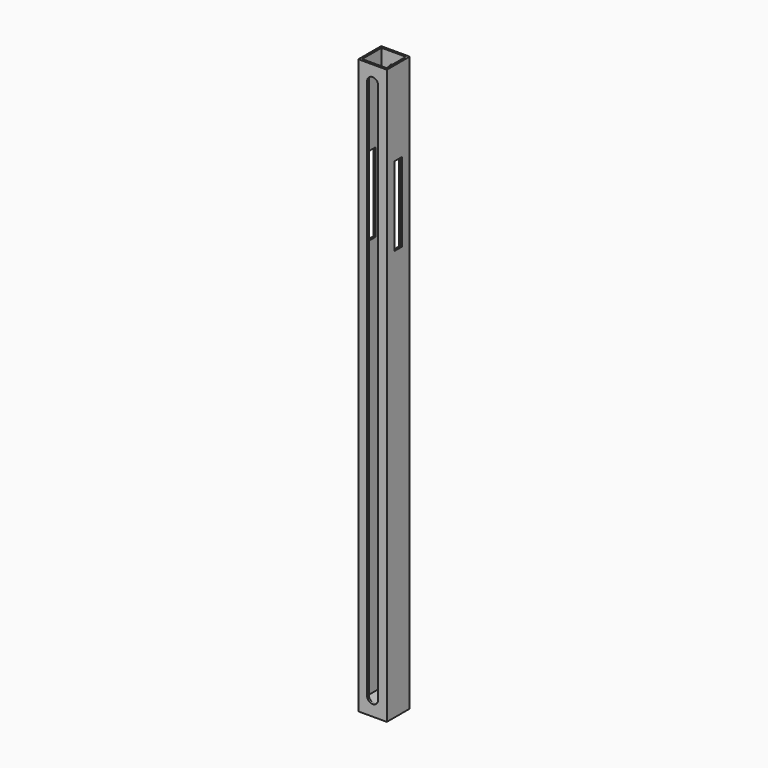
from build123d import *

# Parameters (mm, degrees)
F0_W     = 32.766
F0_H     = 32.766
F1_DEPTH = 660.4
F2_W     = 13.97
F2_H     = 13.97
F3_DEPTH = 647.7
F5_DEPTH = 66.294
F6_W     = 11.1841903999
F6_H     = 90.8770263195
F7_DEPTH = 96.266


with BuildPart() as f1:
    # F0 (on Top) → F1 (new body)
    with BuildSketch(Plane.XY):
        Rectangle(F0_W, F0_H)
    extrude(amount=F1_DEPTH)

    # F2 (on face) → F3 (cut)
    with BuildSketch(Plane.XY.offset(660.4)):
        with Locations((-6.985, 6.985)):
            Rectangle(F2_W, F2_H)
        with Locations((6.985, 6.985)):
            Rectangle(F2_W, F2_H)
        with Locations((6.985, -6.985)):
            Rectangle(F2_W, F2_H)
        with Locations((-6.985, -6.985)):
            Rectangle(F2_W, F2_H)
    extrude(amount=-F3_DEPTH, mode=Mode.SUBTRACT)

    # F4 (on face) → F5 (cut)
    with BuildSketch(Plane.XZ.offset(16.383)):
        with BuildLine():
            Line((0, 25.4), (0, 635))
            ThreePointArc((0, 635), (-4.4901280605, 636.8598719395), (-6.35, 641.35))
            Line((-6.35, 641.35), (-6.35, 19.05))
            ThreePointArc((-6.35, 19.05), (-4.4901280605, 23.5401280605), (0, 25.4))
        make_face()
        with BuildLine():
            Line((0, 635), (0, 647.7))
            ThreePointArc((0, 647.7), (-4.4901280605, 645.8401280605), (-6.35, 641.35))
            ThreePointArc((-6.35, 641.35), (-4.4901280605, 636.8598719395), (0, 635))
        make_face()
        with BuildLine():
            ThreePointArc((6.35, 641.35), (4.4901280605, 645.8401280605), (0, 647.7))
            Line((0, 647.7), (0, 635))
            ThreePointArc((0, 635), (4.4901280605, 636.8598719395), (6.35, 641.35))
        make_face()
        with BuildLine():
            ThreePointArc((6.35, 641.35), (4.4901280605, 636.8598719395), (0, 635))
            Line((0, 635), (0, 25.4))
            ThreePointArc((0, 25.4), (4.4901280605, 23.5401280605), (6.35, 19.05))
            Line((6.35, 19.05), (6.35, 641.35))
        make_face()
        with BuildLine():
            Line((0, 12.7), (0, 25.4))
            ThreePointArc((0, 25.4), (-4.4901280605, 23.5401280605), (-6.35, 19.05))
            ThreePointArc((-6.35, 19.05), (-4.4901280605, 14.5598719395), (0, 12.7))
        make_face()
        with BuildLine():
            ThreePointArc((6.35, 19.05), (4.4901280605, 23.5401280605), (0, 25.4))
            Line((0, 25.4), (0, 12.7))
            ThreePointArc((0, 12.7), (4.4901280605, 14.5598719395), (6.35, 19.05))
        make_face()
    extrude(amount=-F5_DEPTH, mode=Mode.SUBTRACT)

    # F6 (on face) → F7 (cut)
    with BuildSketch(Plane.YZ.offset(16.383)):
        with Locations((0, 517.8375393152)):
            Rectangle(F6_W, F6_H)
    extrude(amount=-F7_DEPTH, mode=Mode.SUBTRACT)


solid = f1.part
